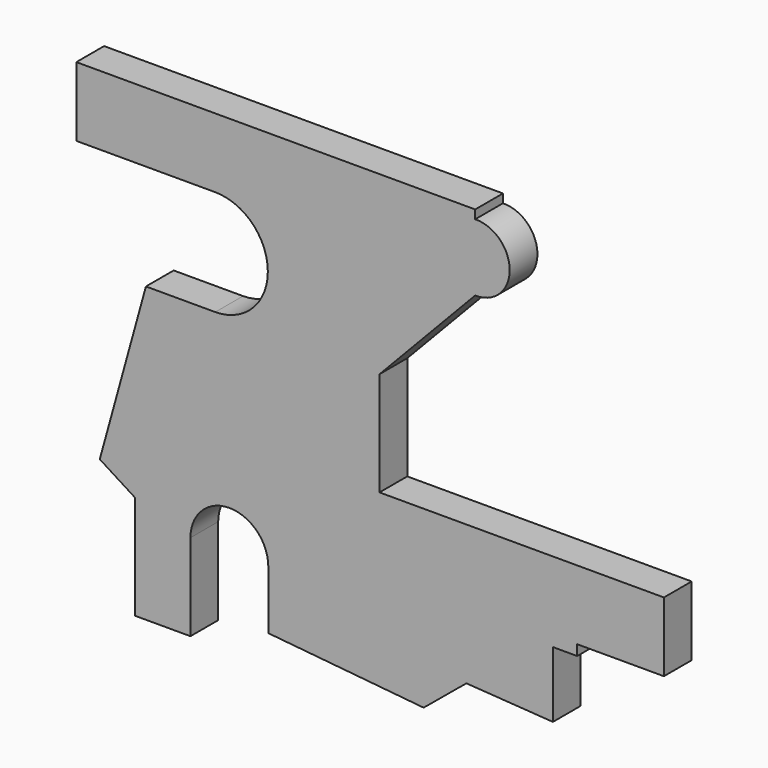
from build123d import *

# Parameters (mm, degrees)
F1_DEPTH = 10


with BuildPart() as f1:
    # F0 (on Front) → F1 (new body)
    with BuildSketch(Plane.XZ):
        with BuildLine():
            Line((41.583763, 50.426011), (-73.416237, 50.426011))
            Line((-73.416237, 50.426011), (-73.416237, 30.426011))
            Line((-73.416237, 30.426011), (-33.416237, 30.426011))
            ThreePointArc((-33.416237, 30.426011), (-18.203203, 15.242156), (-33.357824, 0))
            Line((-33.357824, 0), (-53.357824, 0))
            Line((-53.357824, 0), (-66.663356, -48.197124))
            Line((-66.663356, -48.197124), (-56.522163, -54.612435))
            Line((-56.522163, -54.612435), (-56.522163, -84.612435))
            Line((-56.522163, -84.612435), (-40.522163, -84.612435))
            Line((-40.522163, -84.612435), (-40.522163, -59.612435))
            ThreePointArc((-40.522163, -59.612435), (-29.337402, -48.386736), (-18.070915, -59.530411))
            Line((-18.070915, -59.530411), (-18.070915, -76.530411))
            Line((-18.070915, -76.530411), (26.718853, -80.875143))
            Line((26.718853, -80.875143), (39.053845, -70.684561))
            Line((39.053845, -70.684561), (63.996847, -72.371756))
            Line((63.996847, -72.371756), (63.996847, -53.371756))
            Line((63.996847, -53.371756), (70.996847, -53.371756))
            Line((70.996847, -53.371756), (70.996847, -50.371756))
            Line((70.996847, -50.371756), (95.996847, -50.371756))
            Line((95.996847, -50.371756), (95.996847, -30.371756))
            Line((95.996847, -30.371756), (13.996847, -30.371756))
            Line((13.996847, -30.371756), (13.996847, -0.371756))
            Line((13.996847, -0.371756), (41.583763, 28.593085))
            ThreePointArc((41.583763, 28.593085), (51.531441, 38.259548), (41.583763, 47.926011))
            Line((41.583763, 47.926011), (41.583763, 50.426011))
        make_face()
    extrude(amount=F1_DEPTH)


solid = f1.part
